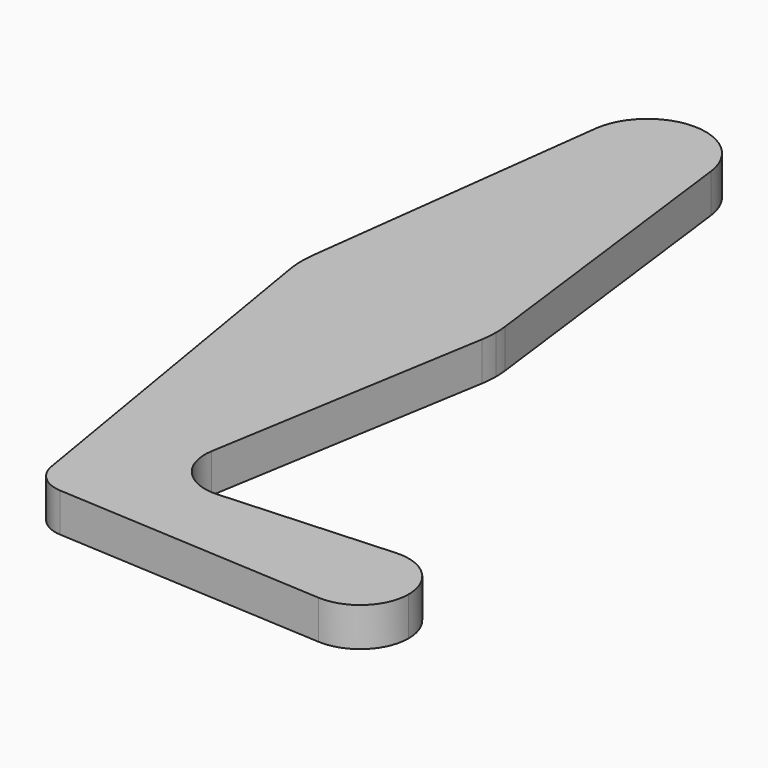
from build123d import *

# Parameters (mm, degrees)
F1_DEPTH = 0.25


with BuildPart() as f1:
    # F0 (on Top) → F1 (new body)
    with BuildSketch(Plane.XY):
        with BuildLine():
            ThreePointArc((0.372059, 4.546875), (0, 4.875), (-0.372059, 4.546875))
            ThreePointArc((-0.372059, 4.546875), (-0.023484, 4.125736), (0.375, 4.5))
            ThreePointArc((0.375, 4.5), (0.374264, 4.523484), (0.372059, 4.546875))
        make_face()
        with BuildLine():
            Line((-0.372059, 4.546875), (-0.620098, 2.578125))
            ThreePointArc((-0.620098, 2.578125), (0, 3.125), (0.620098, 2.578125))
            Line((0.620098, 2.578125), (0.372059, 4.546875))
            ThreePointArc((0.372059, 4.546875), (0.374264, 4.523484), (0.375, 4.5))
            ThreePointArc((0.375, 4.5), (-0.023484, 4.125736), (-0.372059, 4.546875))
        make_face()
        with BuildLine():
            ThreePointArc((-0.620098, 2.578125), (-0.624872, 2.48737), (-0.616435, 2.396882))
            ThreePointArc((-0.616435, 2.396882), (0, 1.875), (0.616435, 2.396882))
            ThreePointArc((0.616435, 2.396882), (0.622855, 2.448264), (0.625, 2.5))
            ThreePointArc((0.625, 2.5), (0.623773, 2.539139), (0.620098, 2.578125))
            ThreePointArc((0.620098, 2.578125), (0, 3.125), (-0.620098, 2.578125))
        make_face()
        with BuildLine():
            ThreePointArc((-0.209616, -0.035065), (-0.017593, 0.211799), (0.212529, 0))
            ThreePointArc((0.212529, 0), (0.145925, -0.154513), (-0.012141, -0.212182))
            Line((-0.012141, -0.212182), (1.732148, -0.31199))
            ThreePointArc((1.732148, -0.31199), (1.4375, 0), (1.732148, 0.31199))
            Line((1.732148, 0.31199), (0.628517, 0.24884))
            ThreePointArc((0.628517, 0.24884), (0.388047, 0.348043), (0.31549, 0.597847))
            Line((0.31549, 0.597847), (0.616435, 2.396882))
            ThreePointArc((0.616435, 2.396882), (0, 1.875), (-0.616435, 2.396882))
            Line((-0.616435, 2.396882), (-0.209616, -0.035065))
        make_face()
        with BuildLine():
            ThreePointArc((-0.012141, -0.212182), (0.145925, -0.154513), (0.212529, 0))
            ThreePointArc((0.212529, 0), (-0.017593, 0.211799), (-0.209616, -0.035065))
            ThreePointArc((-0.209616, -0.035065), (-0.141904, -0.158214), (-0.012141, -0.212182))
        make_face()
        with BuildLine():
            ThreePointArc((1.732148, 0.31199), (1.4375, 0), (1.732148, -0.31199))
            ThreePointArc((1.732148, -0.31199), (1.964566, -0.227195), (2.0625, 0))
            ThreePointArc((2.0625, 0), (1.964566, 0.227195), (1.732148, 0.31199))
        make_face()
    extrude(amount=F1_DEPTH)


solid = f1.part
